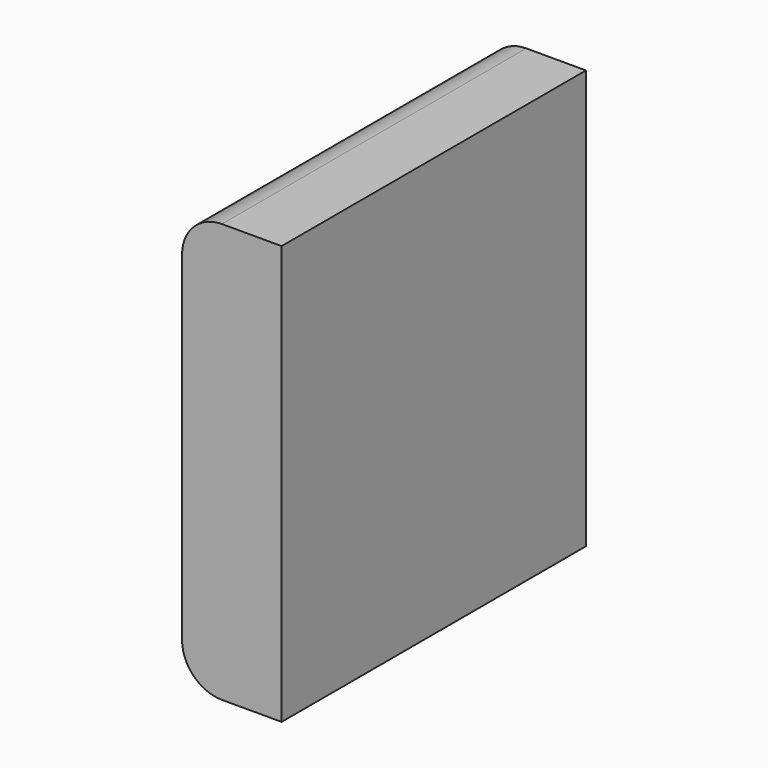
from build123d import *

# Parameters (mm, degrees)
F1_DEPTH = 9.551


with BuildPart() as f1:
    # F0 (on Front) → F1 (new body)
    with BuildSketch(Plane.XZ):
        with BuildLine():
            Line((0, -5), (0, 0))
            Line((0, 0), (0, 5.517102))
            Line((0, 5.517102), (-1.5, 5.517102))
            ThreePointArc((-1.5, 5.517102), (-2.207107, 5.224208), (-2.5, 4.517102))
            Line((-2.5, 4.517102), (-2.5, -4))
            ThreePointArc((-2.5, -4), (-2.207107, -4.707107), (-1.5, -5))
            Line((-1.5, -5), (0, -5))
        make_face()
    extrude(amount=F1_DEPTH)


solid = f1.part
